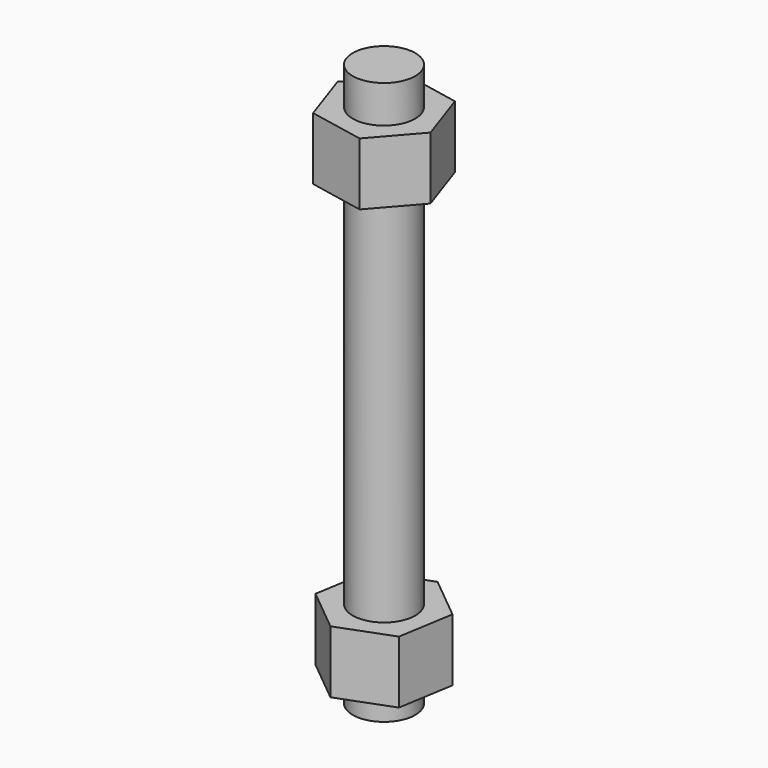
from build123d import *

# Parameters (mm, degrees)
SKETCH_R     = 2.5
PAD_DEPTH    = 2
PAD001_DEPTH = 5
SKETCH002_R  = 2.5
PAD002_DEPTH = 30
PAD003_DEPTH = 5
SKETCH004_R  = 2.5
PAD004_DEPTH = 3


with BuildPart() as part:
    # Sketch → Pad (new body)
    with BuildSketch(Plane.XY):
        Circle(SKETCH_R)
    extrude(amount=PAD_DEPTH)

    # Sketch001 (on Face3 of Pad) → Pad001 (join)
    with BuildSketch(Plane.XY.offset(2)):
        Polygon((0.734523, 4.439648), (-3.477586, 2.85594), (-4.21211, -1.583708), (-0.734523, -4.439648), (3.477586, -2.85594), (4.21211, 1.583708), align=None)
    extrude(amount=PAD001_DEPTH)

    # Sketch002 (on Face5 of Pad001) → Pad002 (join)
    with BuildSketch(Plane.XY.offset(7)):
        Circle(SKETCH002_R)
    extrude(amount=PAD002_DEPTH)

    # Sketch003 (on Face12 of Pad002) → Pad003 (join)
    with BuildSketch(Plane.XY.offset(37)):
        Polygon((-1.455794, 4.258012), (-4.415443, 0.868251), (-2.959649, -3.38976), (1.455794, -4.258012), (4.415443, -0.868251), (2.959649, 3.38976), align=None)
    extrude(amount=PAD003_DEPTH)

    # Sketch004 (on Face5 of Pad003) → Pad004 (join)
    with BuildSketch(Plane.XY.offset(42)):
        Circle(SKETCH004_R)
    extrude(amount=PAD004_DEPTH)


solid = part.part
